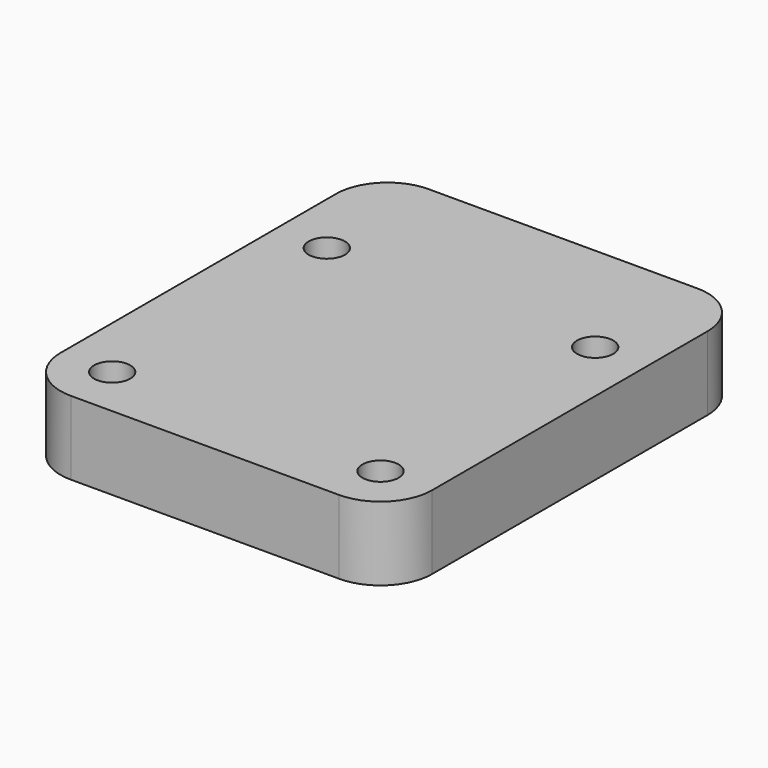
from build123d import *

# Parameters (mm, degrees)
SKETCH_R     = 2.7
PAD_DEPTH    = 11
SKETCH001_R  = 11
POCKET_DEPTH = 9


with BuildPart() as part:
    # Sketch → Pad (new body)
    with BuildSketch(Plane.XY):
        with BuildLine():
            Line((20, 39), (0, 39))
            Line((0, 39), (0, 0))
            Line((0, 0), (0, -27.7))
            Line((0, -27.7), (20, -27.7))
            ThreePointArc((20, -27.7), (25.444722, -25.444722), (27.7, -20))
            Line((27.7, 0), (27.7, -20))
            Line((27.7, 31.3), (27.7, 0))
            ThreePointArc((27.7, 31.3), (25.444722, 36.744722), (20, 39))
        make_face()
        with Locations((20, 20)):
            Circle(SKETCH_R, mode=Mode.SUBTRACT)
        with Locations((20, -20)):
            Circle(SKETCH_R, mode=Mode.SUBTRACT)
    pad = extrude(amount=PAD_DEPTH)

    # Mirrored: Pad across Sketch V_Axis
    add(pad.mirror(Plane(origin=(0, 0, 0), x_dir=(0, 0, 1), z_dir=(1, 0, 0))))

    # Sketch001 → Pocket (cut)
    with BuildSketch(Plane.XY):
        with Locations((0, 20)):
            Circle(SKETCH001_R)
    extrude(amount=POCKET_DEPTH, mode=Mode.SUBTRACT)


solid = part.part
